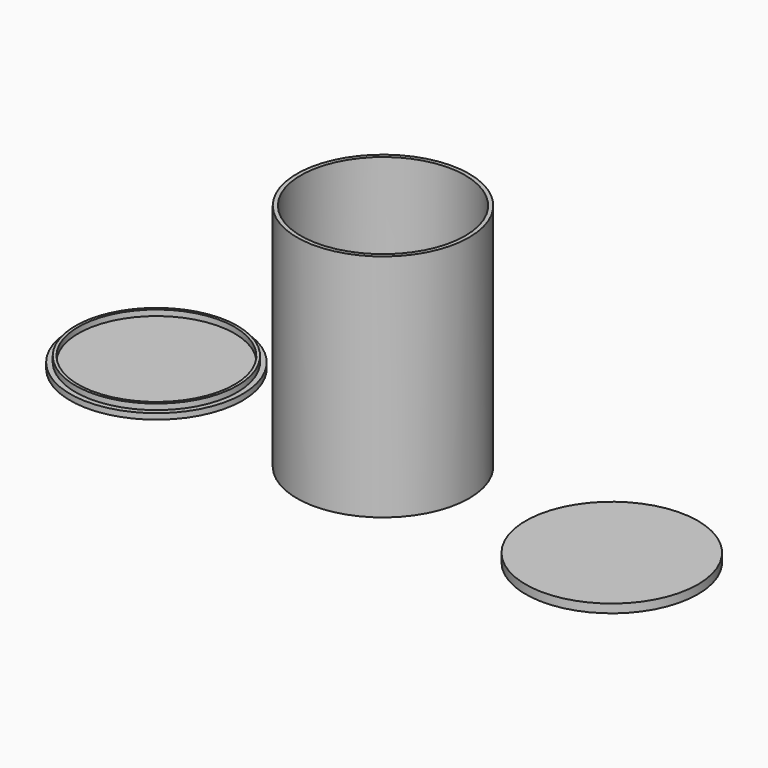
from build123d import *

# Parameters (mm, degrees)
F0_R     = 38.1
F0_R_2   = 36.322
F1_DEPTH = 101.6
F2_R     = 38.1
F2_R_2   = 35.814
F3_DEPTH = 2.54
F2_R_3   = 34.544
F4_DEPTH = 5.08
F5_DEPTH = 2.54
F6_R     = 38.1
F7_DEPTH = 3.81


with BuildPart() as f1:
    # F0 (on Top) → F1 (new body)
    with BuildSketch(Plane.XY):
        Circle(F0_R)
        Circle(F0_R_2, mode=Mode.SUBTRACT)
    extrude(amount=F1_DEPTH)


with BuildPart() as f3:
    # F2 (on Top) → F3 (new body)
    with BuildSketch(Plane.XY):
        with Locations((-106.783174, 8.202186)):
            Circle(F2_R)
        with Locations((-106.783174, 8.202186)):
            Circle(F2_R_2, mode=Mode.SUBTRACT)
    extrude(amount=F3_DEPTH)

    # F2 (on Top) → F4 (join)
    with BuildSketch(Plane.XY):
        with Locations((-106.783174, 8.202186)):
            Circle(F2_R_2)
        with Locations((-106.783174, 8.202186)):
            Circle(F2_R_3, mode=Mode.SUBTRACT)
    extrude(amount=F4_DEPTH)

    # F2 (on Top) → F5 (join)
    with BuildSketch(Plane.XY):
        with Locations((-106.783174, 8.202186)):
            Circle(F2_R_3)
    extrude(amount=F5_DEPTH)


with BuildPart() as f7:
    # F6 (on Top) → F7 (new body)
    with BuildSketch(Plane.XY):
        with Locations((106.488392, -6.654604)):
            Circle(F6_R)
    extrude(amount=F7_DEPTH)


solid = Compound([f1.part, f3.part, f7.part])
